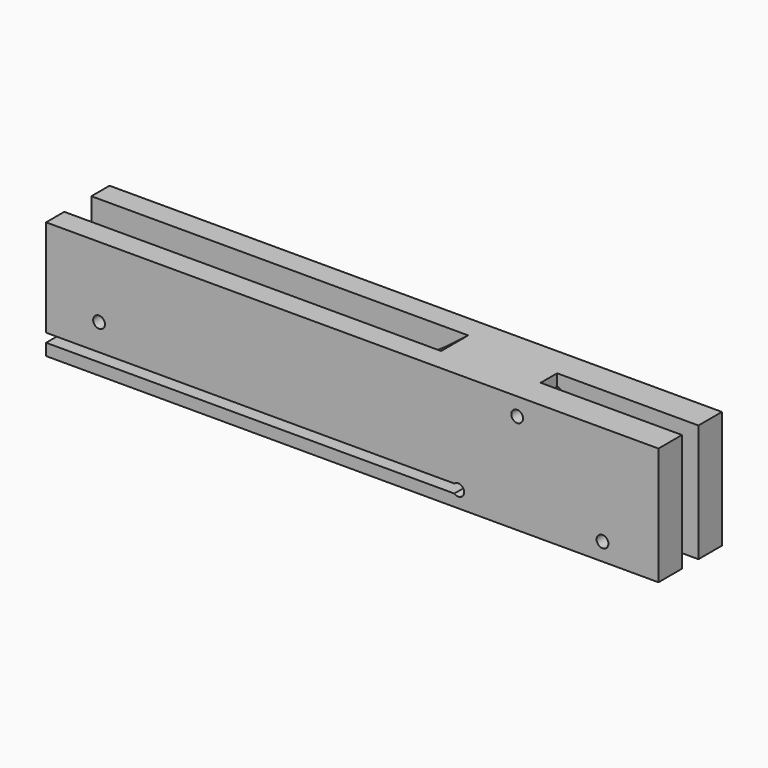
from build123d import *

# Parameters (mm, degrees)
F1_DEPTH  = 9.128125
F2_W      = 165.1
F2_H      = 31.75
F3_DEPTH  = 6.1293375
F4_W      = 165.1
F4_H      = 31.75
F5_DEPTH  = 6.1293375
F6_W      = 111.125
F6_H      = 2.38125
F7_DEPTH  = 21.3868
F8_R      = 1.5875
F9_DEPTH  = 21.3868
F11_DEPTH = 31.75


with BuildPart() as f1:
    # F0 (on Front) → F1 (new body)
    with BuildSketch(Plane.XZ):
        with BuildLine():
            Line((-57.15, -12.446), (-82.55, -12.446))
            Line((-82.55, -12.446), (-82.55, -15.621))
            Line((-82.55, -15.621), (82.55, -15.621))
            Line((82.55, -15.621), (82.55, 16.129))
            Line((82.55, 16.129), (19.05, 16.129))
            ThreePointArc((19.05, 16.129), (-16.6991764887, -4.4273626968), (-57.15, -12.446))
        make_face()
    extrude(amount=F1_DEPTH)

    # F2 (on face) → F3 (join)
    with BuildSketch(Plane.XZ.offset(9.128125)):
        with Locations((0, 0.254)):
            Rectangle(F2_W, F2_H)
    extrude(amount=F3_DEPTH)

    # F4 (on face) → F5 (join)
    with BuildSketch(Plane(origin=(0, 0, 0), x_dir=(-1, 0, 0), z_dir=(0, 1, 0))):
        with Locations((0, 0.254)):
            Rectangle(F4_W, F4_H)
    extrude(amount=F5_DEPTH)

    # F6 (on face) → F7 (cut, through all)
    with BuildSketch(Plane.XZ.offset(15.2574625)):
        with Locations((-26.9875, -11.255375)):
            Rectangle(F6_W, F6_H)
    extrude(amount=-F7_DEPTH, mode=Mode.SUBTRACT)

    # F8 (on face) → F9 (cut, through all)
    with BuildSketch(Plane.XZ.offset(15.2574625)):
        with Locations((-68.2625, -2.921)):
            Circle(F8_R)
        with Locations((28.575, -11.255375)):
            Circle(F8_R)
        with Locations((44.45, 11.3665)):
            Circle(F8_R)
        with Locations((67.46875, -10.8585)):
            Circle(F8_R)
    extrude(amount=-F9_DEPTH, mode=Mode.SUBTRACT)

    # F10 (on face) → F11 (cut, through all)
    with BuildSketch(Plane.XY.offset(16.129)):
        Polygon((82.55, -7.3421875), (82.55, -1.7859375), (44.45, -1.7859375), (44.45, -7.3421875), align=None)
    extrude(amount=-F11_DEPTH, mode=Mode.SUBTRACT)


solid = f1.part
